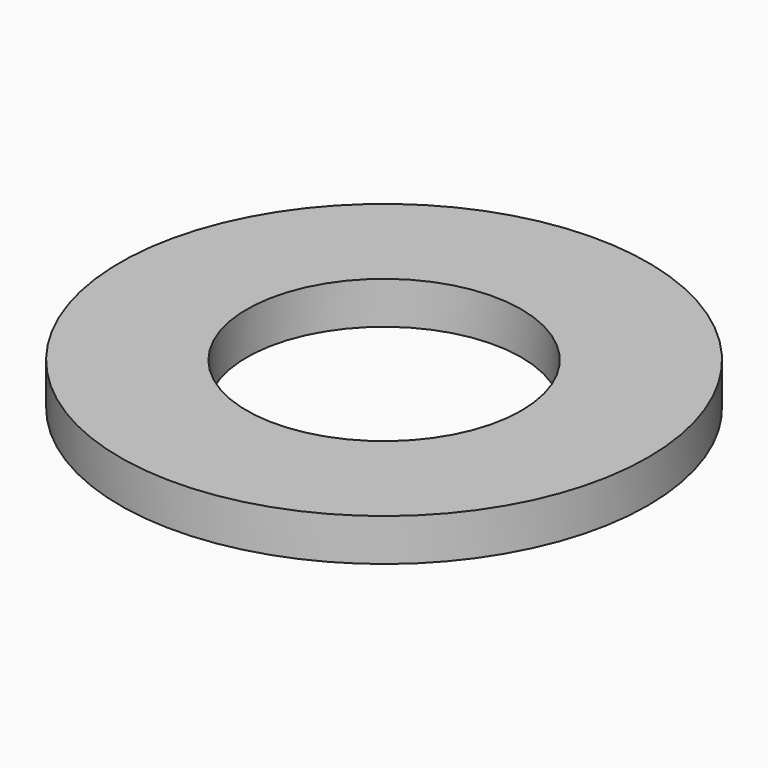
from build123d import *

# Parameters (mm, degrees)
SKETCH_R   = 5
SKETCH_R_2 = 2.6
PAD_DEPTH  = 0.8


with BuildPart() as part:
    # Sketch → Pad (new body)
    with BuildSketch(Plane.XY):
        Circle(SKETCH_R)
        Circle(SKETCH_R_2, mode=Mode.SUBTRACT)
    extrude(amount=PAD_DEPTH)


solid = part.part
